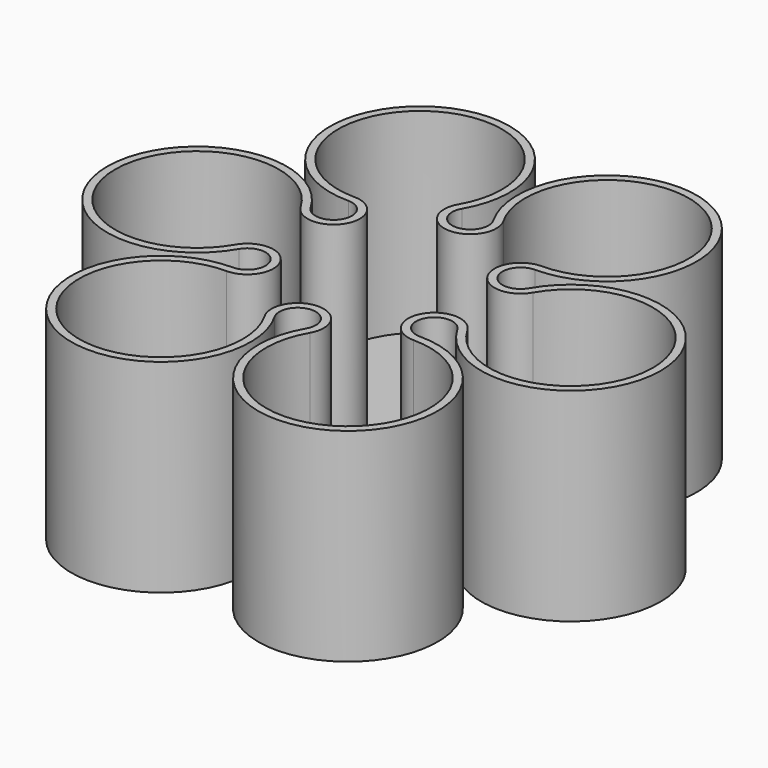
from build123d import *

# Parameters (mm, degrees)
F1_DEPTH = 36
F2_T     = -1.4


with BuildPart() as f1:
    # F0 (on Top) → F1 (new body)
    with BuildSketch(Plane.XY):
        with BuildLine():
            ThreePointArc((-16.5625, 12.787092), (-13.769804, 7.95), (-19.355196, 7.95))
            ThreePointArc((-19.355196, 7.95), (-49.025, 0), (-19.355196, -7.95))
            ThreePointArc((-19.355196, -7.95), (-13.769804, -7.95), (-16.5625, -12.787092))
            ThreePointArc((-16.5625, -12.787092), (-24.5125, -42.456895), (-2.792696, -20.737092))
            ThreePointArc((-2.792696, -20.737092), (0, -15.9), (2.792696, -20.737092))
            ThreePointArc((2.792696, -20.737092), (24.5125, -42.456895), (16.5625, -12.787092))
            ThreePointArc((16.5625, -12.787092), (13.769804, -7.95), (19.355196, -7.95))
            ThreePointArc((19.355196, -7.95), (49.025, 0), (19.355196, 7.95))
            ThreePointArc((19.355196, 7.95), (13.769804, 7.95), (16.5625, 12.787092))
            ThreePointArc((16.5625, 12.787092), (24.5125, 42.456895), (2.792696, 20.737092))
            ThreePointArc((2.792696, 20.737092), (0, 15.9), (-2.792696, 20.737092))
            ThreePointArc((-2.792696, 20.737092), (-24.5125, 42.456895), (-16.5625, 12.787092))
        make_face()
    extrude(amount=F1_DEPTH)

    # F2
    f2_openings = [f1.faces().sort_by_distance(p)[0] for p in [
        (0, 0, 36),
    ]]
    offset(amount=F2_T, openings=f2_openings)


solid = f1.part
